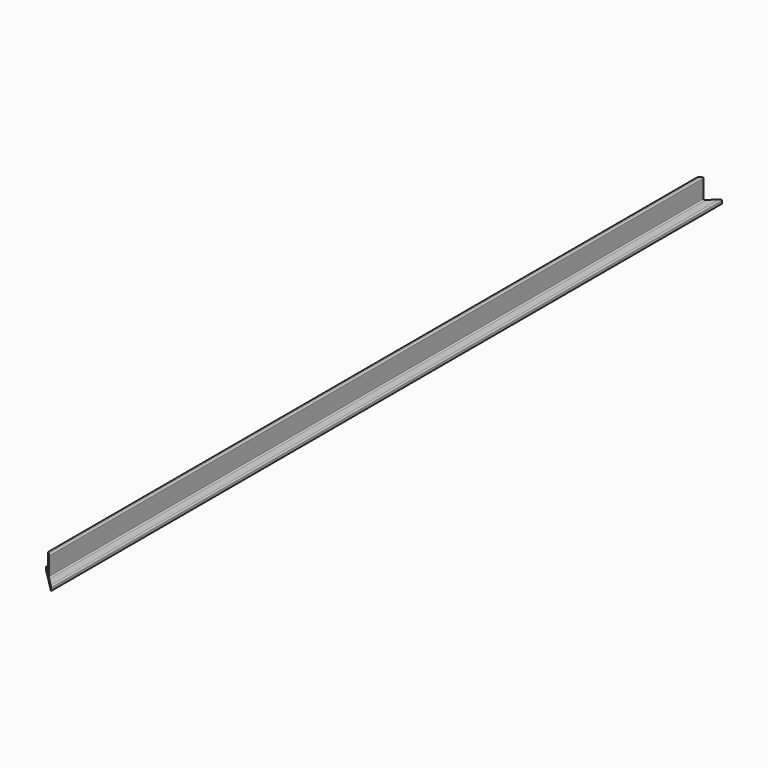
from build123d import *

# Parameters (mm, degrees)
F1_DEPTH = 650
F3_DEPTH = 20


with BuildPart() as f1:
    # F0 (on Front) → F1 (new body)
    with BuildSketch(Plane.XZ):
        with BuildLine():
            Line((-9.55, 2.17), (-9.55, 0))
            Line((-9.55, 0), (9.55, 0))
            Line((9.55, 0), (9.55, 2.17))
            ThreePointArc((9.55, 2.17), (9.257107, 2.877107), (8.55, 3.17))
            Line((8.55, 3.17), (2.585, 3.17))
            ThreePointArc((2.585, 3.17), (1.877893, 3.462893), (1.585, 4.17))
            Line((1.585, 4.17), (1.585, 18.1))
            ThreePointArc((1.585, 18.1), (1.292107, 18.807107), (0.585, 19.1))
            Line((0.585, 19.1), (-0.585, 19.1))
            ThreePointArc((-0.585, 19.1), (-1.292107, 18.807107), (-1.585, 18.1))
            Line((-1.585, 18.1), (-1.585, 4.17))
            ThreePointArc((-1.585, 4.17), (-1.877893, 3.462893), (-2.585, 3.17))
            Line((-2.585, 3.17), (-8.55, 3.17))
            ThreePointArc((-8.55, 3.17), (-9.257107, 2.877107), (-9.55, 2.17))
        make_face()
    extrude(amount=F1_DEPTH)

    # F2 (on face) → F3 (cut)
    with BuildSketch(Plane(origin=(0, 0, 0), x_dir=(1, 0, 0), z_dir=(0, 0, -1))):
        Polygon((-9.55, 630.9), (9.55, 650), (-9.55, 650), align=None)
        Polygon((-9.55, 0), (9.55, 0), (-9.55, 19.1), align=None)
    extrude(amount=-F3_DEPTH, mode=Mode.SUBTRACT)


solid = f1.part
